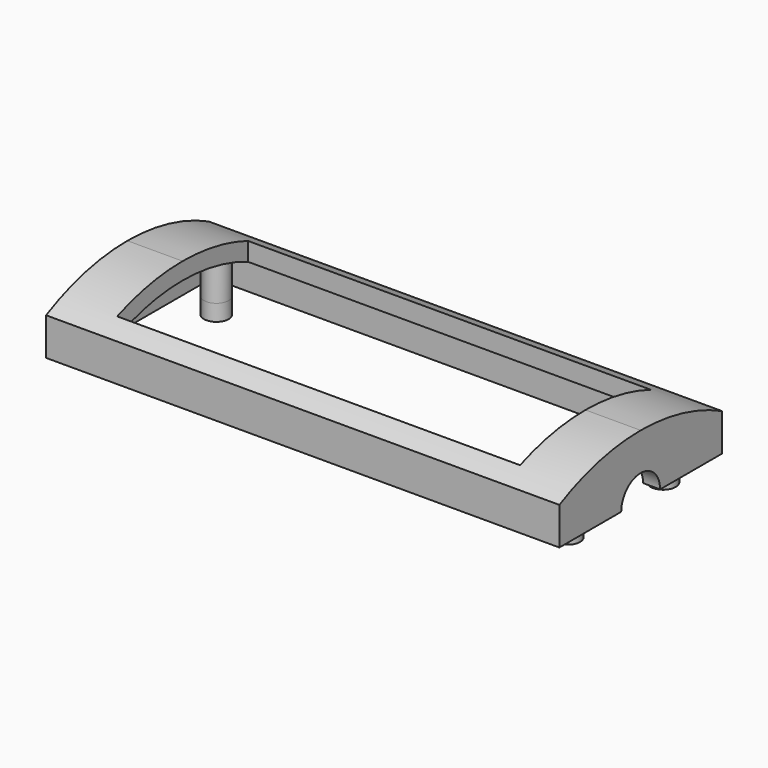
from build123d import *

# Parameters (mm, degrees)
F0_W           = 116.2
F0_H           = 46
F0_W_2         = 91.2
F0_H_2         = 37
F1_DEPTH       = 14
F3_DEPTH       = 116.201
F4_T           = -3.85
F5_W           = 91.2
F5_H           = 37
F6_DEPTH       = 14.001
F7_R           = 2.8
F7_R_2         = 2.85
F10_DEPTH      = 25
F11_R          = 1.225
F12_DEPTH      = 10
F14_R          = 1.1
F15_DEPTH      = 3
F15_DEPTH_BACK = 1.955065151
F16_R          = 1.225
F16_R_2        = 2.8
F17_DEPTH      = 3.7


with BuildPart() as f1:
    # F0 (on Top) → F1 (new body)
    with BuildSketch(Plane.XY):
        Rectangle(F0_W, F0_H)
        Rectangle(F0_W_2, F0_H_2, mode=Mode.SUBTRACT)
        Rectangle(F0_W_2, F0_H_2)
    extrude(amount=F1_DEPTH)

    # F2 (on face) → F3 (cut, through all)
    with BuildSketch(Plane.YZ.offset(58.1)):
        Polygon((23, 14), (23, 8.5), (26.9685778767, 8.2080848515), (26.9685778767, 18.4987988323), (-26.2719616294, 18.4987988323), (-26.2719616294, 8.5), (-23, 8.5), (-23, 14), (0, 14), align=None)
        with BuildLine():
            ThreePointArc((-23, 8.5), (-11.8242335904, 12.6058859234), (0, 14))
            Line((0, 14), (-23, 14))
            Line((-23, 14), (-23, 8.5))
        make_face()
        with BuildLine():
            ThreePointArc((0, 14), (11.8242335904, 12.6058859234), (23, 8.5))
            Line((23, 8.5), (23, 14))
            Line((23, 14), (0, 14))
        make_face()
    extrude(amount=-F3_DEPTH, mode=Mode.SUBTRACT)

    # F4
    f4_openings = [f1.faces().sort_by_distance(p)[0] for p in [
        (0, 0, 0),
    ]]
    offset(amount=F4_T, openings=f4_openings)

    # F5 (on Top) → F6 (cut, through all)
    with BuildSketch(Plane.XY):
        Rectangle(F5_W, F5_H)
    extrude(amount=F6_DEPTH, mode=Mode.SUBTRACT)

    # F7 (on face) → F8 (join, up to the next surface of F1)
    with BuildSketch(Plane(origin=(0, 0, 0), x_dir=(1, 0, 0), z_dir=(0, 0, -1))):
        with Locations((-49.4, 14.3)):
            Circle(F7_R)
        with Locations((-49.4, -14.3)):
            Circle(F7_R)
        with Locations((52.4, 13.5)):
            Circle(F7_R)
        with Locations((52.4, -13.5)):
            Circle(F7_R_2)
    extrude(until=Until.NEXT, dir=(0, 0, 1))

    # F9 (on face) → F10 (cut)
    with BuildSketch(Plane.YZ.offset(58.1)):
        with BuildLine():
            ThreePointArc((-5.5, 0), (0, -5.5), (5.5, 0))
            Line((5.5, 0), (-5.5, 0))
        make_face()
        with BuildLine():
            Line((-5.5, 0), (5.5, 0))
            ThreePointArc((5.5, 0), (0, 5.5), (-5.5, 0))
        make_face()
    extrude(amount=-F10_DEPTH, mode=Mode.SUBTRACT)

    # F11 (on face) → F12 (cut)
    with BuildSketch(Plane(origin=(0, 0, 0), x_dir=(1, 0, 0), z_dir=(0, 0, -1))):
        with Locations((-49.4, 14.3)):
            Circle(F11_R)
        with Locations((-49.4, -14.3)):
            Circle(F11_R)
        with Locations((52.4, 13.5)):
            Circle(F11_R)
        with Locations((52.4, -13.5)):
            Circle(F11_R)
    extrude(amount=-F12_DEPTH, mode=Mode.SUBTRACT)

    # F14 (on offset) → F15 (join, two sides)
    with BuildSketch(Plane(origin=(0, 0, 8), x_dir=(1, 0, 0), z_dir=(0, 0, -1))) as f15_sk:
        with BuildLine():
            Line((47.0988332987, 11.1403603734), (47.0988332987, 4.8591672747))
            ThreePointArc((47.0988332987, 4.8591672747), (52.8239783636, 7.999763824), (47.0988332987, 11.1403603734))
        make_face()
        with Locations((49.1, 7.999763824)):
            Circle(F14_R, mode=Mode.SUBTRACT)
        with BuildLine():
            ThreePointArc((47.0968177208, -10.9978726761), (52.6833744029, -8.0229183659), (47.0968177208, -5.0479640557))
            Line((47.0968177208, -5.0479640557), (47.0968177208, -10.9978726761))
        make_face()
        with Locations((49.0979844222, -8.0229183659)):
            Circle(F14_R, mode=Mode.SUBTRACT)
    extrude(amount=F15_DEPTH)
    extrude(f15_sk.sketch, amount=-F15_DEPTH_BACK)

    # F16 (on face) → F17 (join)
    with BuildSketch(Plane(origin=(0, 0, 0), x_dir=(1, 0, 0), z_dir=(0, 0, -1))):
        with BuildLine():
            ThreePointArc((54.25, 11.3982150443), (55.2, 13.5), (54.25, 15.6017849557))
            ThreePointArc((54.25, 15.6017849557), (49.6, 13.5), (54.25, 11.3982150443))
        make_face()
        with Locations((52.4, 13.5)):
            Circle(F16_R, mode=Mode.SUBTRACT)
        with BuildLine():
            ThreePointArc((54.25, -15.6679483389), (55.25, -13.5), (54.25, -11.3320516611))
            ThreePointArc((54.25, -11.3320516611), (49.55, -13.5), (54.25, -15.6679483389))
        make_face()
        with Locations((52.4, -13.5)):
            Circle(F16_R, mode=Mode.SUBTRACT)
        with Locations((-49.4, 14.3)):
            Circle(F16_R_2)
        with Locations((-49.4, 14.3)):
            Circle(F16_R, mode=Mode.SUBTRACT)
        with Locations((-49.4, -14.3)):
            Circle(F16_R_2)
        with Locations((-49.4, -14.3)):
            Circle(F16_R, mode=Mode.SUBTRACT)
    extrude(amount=F17_DEPTH)


solid = f1.part
